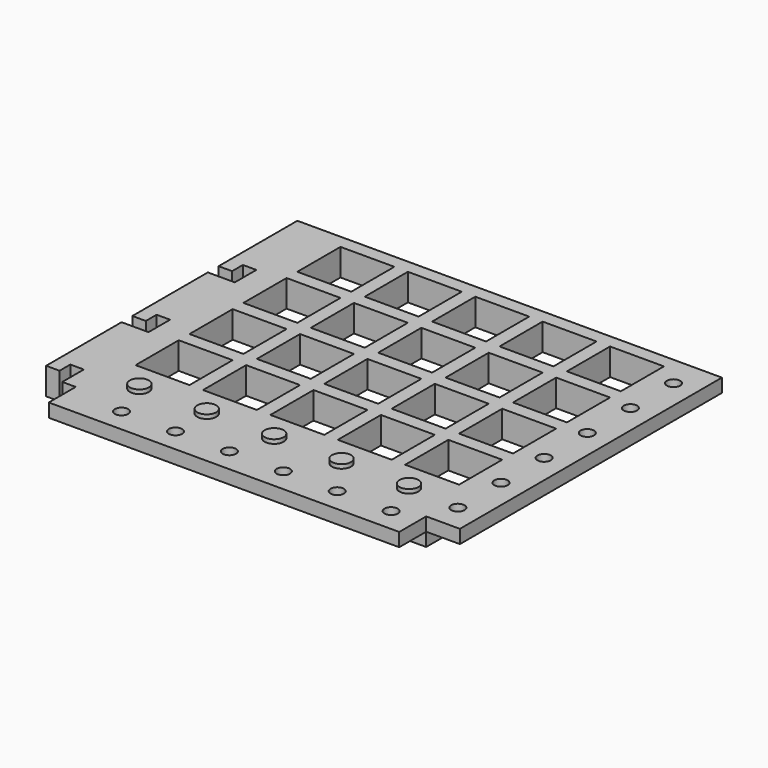
from build123d import *

# Parameters (mm, degrees)
F0_W      = 260
F0_H      = 210
F0_W_2    = 40
F0_H_2    = 40
F1_DEPTH  = 20
F1_FACE_W = 260
F1_FACE_H = 20
F2_DEPTH  = 33
F3_W      = 260
F3_H      = 10
F4_DEPTH  = 25
F5_R      = 4.95
F6_DEPTH  = 25
F7_W      = 243
F7_H      = 10
F8_DEPTH  = 25
F9_R      = 4.95
F10_DEPTH = 25
F11_W     = 243
F11_H     = 20
F12_DEPTH = 30
F14_DEPTH = 25
F15_R     = 7.05
F16_DEPTH = 3


with BuildPart() as f1:
    # F0 (on Top) → F1 (new body)
    with BuildSketch(Plane.XY):
        Rectangle(F0_W, F0_H)
        with Locations((-100, -75)):
            Rectangle(F0_W_2, F0_H_2, mode=Mode.SUBTRACT)
        with Locations((-50, -75)):
            Rectangle(F0_W_2, F0_H_2, mode=Mode.SUBTRACT)
        with Locations((-100, -25)):
            Rectangle(F0_W_2, F0_H_2, mode=Mode.SUBTRACT)
        with Locations((-50, -25)):
            Rectangle(F0_W_2, F0_H_2, mode=Mode.SUBTRACT)
        with Locations((0, -75)):
            Rectangle(F0_W_2, F0_H_2, mode=Mode.SUBTRACT)
        with Locations((50, -75)):
            Rectangle(F0_W_2, F0_H_2, mode=Mode.SUBTRACT)
        with Locations((100, -75)):
            Rectangle(F0_W_2, F0_H_2, mode=Mode.SUBTRACT)
        with Locations((0, -25)):
            Rectangle(F0_W_2, F0_H_2, mode=Mode.SUBTRACT)
        with Locations((50, -25)):
            Rectangle(F0_W_2, F0_H_2, mode=Mode.SUBTRACT)
        with Locations((100, -25)):
            Rectangle(F0_W_2, F0_H_2, mode=Mode.SUBTRACT)
        with Locations((-100, 25)):
            Rectangle(F0_W_2, F0_H_2, mode=Mode.SUBTRACT)
        with Locations((-50, 25)):
            Rectangle(F0_W_2, F0_H_2, mode=Mode.SUBTRACT)
        with Locations((-100, 75)):
            Rectangle(F0_W_2, F0_H_2, mode=Mode.SUBTRACT)
        with Locations((-50, 75)):
            Rectangle(F0_W_2, F0_H_2, mode=Mode.SUBTRACT)
        with Locations((0, 25)):
            Rectangle(F0_W_2, F0_H_2, mode=Mode.SUBTRACT)
        with Locations((50, 25)):
            Rectangle(F0_W_2, F0_H_2, mode=Mode.SUBTRACT)
        with Locations((100, 25)):
            Rectangle(F0_W_2, F0_H_2, mode=Mode.SUBTRACT)
        with Locations((0, 75)):
            Rectangle(F0_W_2, F0_H_2, mode=Mode.SUBTRACT)
        with Locations((50, 75)):
            Rectangle(F0_W_2, F0_H_2, mode=Mode.SUBTRACT)
        with Locations((100, 75)):
            Rectangle(F0_W_2, F0_H_2, mode=Mode.SUBTRACT)
    extrude(amount=F1_DEPTH)

    # F1_face (on face) → F2 (join)
    with BuildSketch(Plane(origin=(0, -105, 10), x_dir=(1, 0, 0), z_dir=(0, -1, 0))):
        Rectangle(F1_FACE_W, F1_FACE_H)
    extrude(amount=F2_DEPTH)

    # F3 (on face) → F4 (join)
    with BuildSketch(Plane.XZ.offset(138)):
        with Locations((0, 15)):
            Rectangle(F3_W, F3_H)
    extrude(amount=F4_DEPTH)

    # F5 (on face) → F6 (cut)
    with BuildSketch(Plane.XY.offset(20)):
        with Locations((110, -145.5)):
            Circle(F5_R)
        with Locations((70, -145.5)):
            Circle(F5_R)
        with Locations((30, -145.5)):
            Circle(F5_R)
        with Locations((-10, -145.5)):
            Circle(F5_R)
        with Locations((-50, -145.5)):
            Circle(F5_R)
        with Locations((-90, -145.5)):
            Circle(F5_R)
    extrude(amount=-F6_DEPTH, mode=Mode.SUBTRACT)

    # F7 (on face) → F8 (join)
    with BuildSketch(Plane.YZ.offset(130)):
        with Locations((-16.5, 15)):
            Rectangle(F7_W, F7_H)
    extrude(amount=F8_DEPTH)

    # F9 (on face) → F10 (cut)
    with BuildSketch(Plane.XY.offset(20)):
        with Locations((137.5, -118)):
            Circle(F9_R)
        with Locations((137.5, -78)):
            Circle(F9_R)
        with Locations((137.5, -38)):
            Circle(F9_R)
        with Locations((137.5, 2)):
            Circle(F9_R)
        with Locations((137.5, 42)):
            Circle(F9_R)
        with Locations((137.5, 82)):
            Circle(F9_R)
    extrude(amount=-F10_DEPTH, mode=Mode.SUBTRACT)

    # F11 (on face) → F12 (join)
    with BuildSketch(Plane(origin=(-130, 0, 0), x_dir=(0, -1, 0), z_dir=(-1, 0, 0))):
        with Locations((16.5, 10)):
            Rectangle(F11_W, F11_H)
    extrude(amount=F12_DEPTH)

    # F13 (on face) → F14 (cut)
    with BuildSketch(Plane.XY.offset(20)):
        Polygon((-160, -128), (-160, -138), (-140, -138), (-140, -118), (-150, -118), (-150, -128), align=None)
        Polygon((-140, -58), (-140, -38), (-150, -38), (-150, -48), (-160, -48), (-160, -58), align=None)
        Polygon((-140, 22), (-140, 42), (-150, 42), (-150, 32), (-160, 32), (-160, 22), align=None)
    extrude(amount=-F14_DEPTH, mode=Mode.SUBTRACT)

    # F15 (on face) → F16 (join)
    with BuildSketch(Plane.XY.offset(20)):
        with Locations((100, -116.5)):
            Circle(F15_R)
        with Locations((50, -116.5)):
            Circle(F15_R)
        with Locations((0, -116.5)):
            Circle(F15_R)
        with Locations((-50, -116.5)):
            Circle(F15_R)
        with Locations((-100, -116.5)):
            Circle(F15_R)
    extrude(amount=F16_DEPTH)


solid = f1.part
